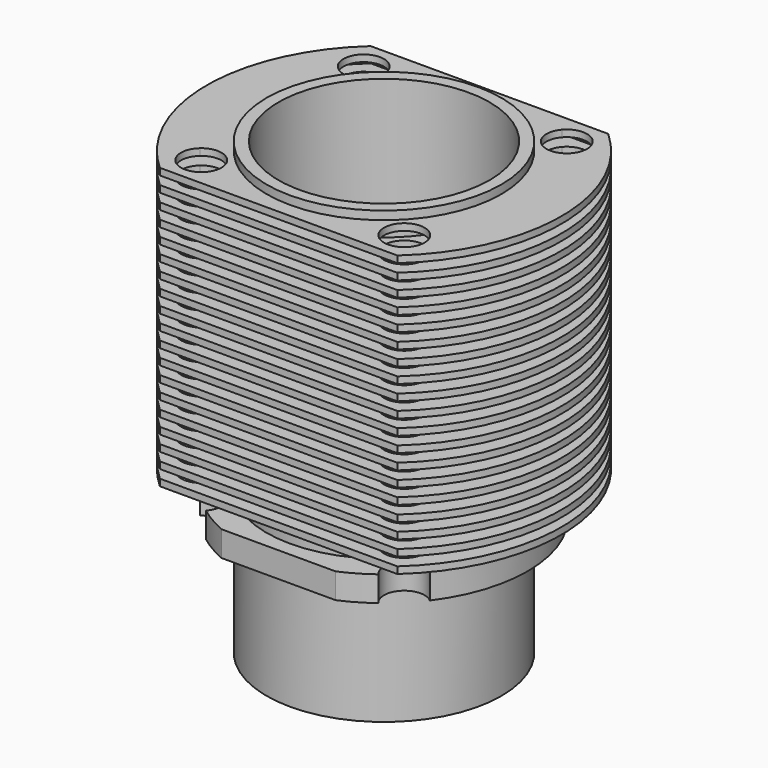
from build123d import *

# Parameters (mm, degrees)
F0_R     = 69.5
F0_R_2   = 62.5
F1_DEPTH = 266.5
F2_W     = 85
F2_H     = 15
F2_W_2   = 105
F2_H_2   = 4
F4_DEPTH = 300
F6_W     = 315.2760714293
F6_H     = 267.5040364265
F6_W_2   = 250
F6_H_2   = 156
F7_DEPTH = 250
F9_DEPTH = 250


with BuildPart() as f1:
    # F0 (on Top) → F1 (new body)
    with BuildSketch(Plane.XY):
        Circle(F0_R)
        Circle(F0_R_2, mode=Mode.SUBTRACT)
    extrude(amount=-F1_DEPTH)

    # F2 (on Front) → F3 (revolve)
    with BuildSketch(Plane.XZ):
        with Locations((42.5, -189)):
            Rectangle(F2_W, F2_H)
        with Locations((52.5, -169)):
            Rectangle(F2_W_2, F2_H_2)
        with Locations((52.5, -160)):
            Rectangle(F2_W_2, F2_H_2)
        with Locations((52.5, -151)):
            Rectangle(F2_W_2, F2_H_2)
        with Locations((52.5, -142)):
            Rectangle(F2_W_2, F2_H_2)
        with Locations((52.5, -133)):
            Rectangle(F2_W_2, F2_H_2)
        with Locations((52.5, -124)):
            Rectangle(F2_W_2, F2_H_2)
        with Locations((52.5, -115)):
            Rectangle(F2_W_2, F2_H_2)
        with Locations((52.5, -106)):
            Rectangle(F2_W_2, F2_H_2)
        with Locations((52.5, -97)):
            Rectangle(F2_W_2, F2_H_2)
        with Locations((52.5, -88)):
            Rectangle(F2_W_2, F2_H_2)
        with Locations((52.5, -79)):
            Rectangle(F2_W_2, F2_H_2)
        with Locations((52.5, -70)):
            Rectangle(F2_W_2, F2_H_2)
        with Locations((52.5, -61)):
            Rectangle(F2_W_2, F2_H_2)
        with Locations((52.5, -52)):
            Rectangle(F2_W_2, F2_H_2)
        with Locations((52.5, -43)):
            Rectangle(F2_W_2, F2_H_2)
        with Locations((52.5, -34)):
            Rectangle(F2_W_2, F2_H_2)
        with Locations((52.5, -25)):
            Rectangle(F2_W_2, F2_H_2)
        with Locations((52.5, -16)):
            Rectangle(F2_W_2, F2_H_2)
        with Locations((52.5, -7)):
            Rectangle(F2_W_2, F2_H_2)
    revolve(axis=Axis((0, 0, -133.25), (0, 0, -1)))

    # F0 (on Top) → F4 (cut)
    with BuildSketch(Plane.XY):
        Circle(F0_R_2)
    extrude(amount=-F4_DEPTH, mode=Mode.SUBTRACT)

    # F6 (on offset) → F7 (cut)
    with BuildSketch(Plane.XY.offset(25)):
        with Locations((11.5021541715, -1.6195476055)):
            Rectangle(F6_W, F6_H)
        Rectangle(F6_W_2, F6_H_2, mode=Mode.SUBTRACT)
    extrude(amount=-F7_DEPTH, mode=Mode.SUBTRACT)

    # F8 (on offset) → F9 (cut)
    with BuildSketch(Plane.XY.offset(25)):
        with BuildLine():
            ThreePointArc((72.1040764009, -60.1040764009), (71.0215360327, -55.1232054744), (67.9692305364, -51.0410001889))
            ThreePointArc((67.9692305364, -51.0410001889), (60.1040764009, -60.1040764009), (51.0410001889, -67.9692305364))
            ThreePointArc((51.0410001889, -67.9692305364), (64.3018785315, -71.3458937482), (72.1040764009, -60.1040764009))
        make_face()
        with BuildLine():
            ThreePointArc((51.0410001889, -67.9692305364), (60.1040764009, -60.1040764009), (67.9692305364, -51.0410001889))
            ThreePointArc((67.9692305364, -51.0410001889), (51.6187950266, -51.6187950266), (51.0410001889, -67.9692305364))
        make_face()
        with BuildLine():
            ThreePointArc((-67.9692305364, -51.0410001889), (-68.5893577751, -68.5893577751), (-51.0410001889, -67.9692305364))
            ThreePointArc((-51.0410001889, -67.9692305364), (-60.1040764009, -60.1040764009), (-67.9692305364, -51.0410001889))
        make_face()
        with BuildLine():
            ThreePointArc((-67.9692305364, -51.0410001889), (-60.1040764009, -60.1040764009), (-51.0410001889, -67.9692305364))
            ThreePointArc((-51.0410001889, -67.9692305364), (-48.8622590535, -64.3018785315), (-48.1040764009, -60.1040764009))
            ThreePointArc((-48.1040764009, -60.1040764009), (-55.1232054744, -49.186616769), (-67.9692305364, -51.0410001889))
        make_face()
        with BuildLine():
            ThreePointArc((-67.9692305364, 51.0410001889), (-60.1040764009, 60.1040764009), (-51.0410001889, 67.9692305364))
            ThreePointArc((-51.0410001889, 67.9692305364), (-68.5893577751, 68.5893577751), (-67.9692305364, 51.0410001889))
        make_face()
        with BuildLine():
            ThreePointArc((-48.1040764009, 60.1040764009), (-48.8622590535, 64.3018785315), (-51.0410001889, 67.9692305364))
            ThreePointArc((-51.0410001889, 67.9692305364), (-60.1040764009, 60.1040764009), (-67.9692305364, 51.0410001889))
            ThreePointArc((-67.9692305364, 51.0410001889), (-55.1232054744, 49.186616769), (-48.1040764009, 60.1040764009))
        make_face()
        with BuildLine():
            ThreePointArc((51.0410001889, 67.9692305364), (60.1040764009, 60.1040764009), (67.9692305364, 51.0410001889))
            ThreePointArc((67.9692305364, 51.0410001889), (71.0215360327, 55.1232054744), (72.1040764009, 60.1040764009))
            ThreePointArc((72.1040764009, 60.1040764009), (64.3018785315, 71.3458937482), (51.0410001889, 67.9692305364))
        make_face()
        with BuildLine():
            ThreePointArc((51.0410001889, 67.9692305364), (51.6187950266, 51.6187950266), (67.9692305364, 51.0410001889))
            ThreePointArc((67.9692305364, 51.0410001889), (60.1040764009, 60.1040764009), (51.0410001889, 67.9692305364))
        make_face()
    extrude(amount=-F9_DEPTH, mode=Mode.SUBTRACT)


solid = f1.part
